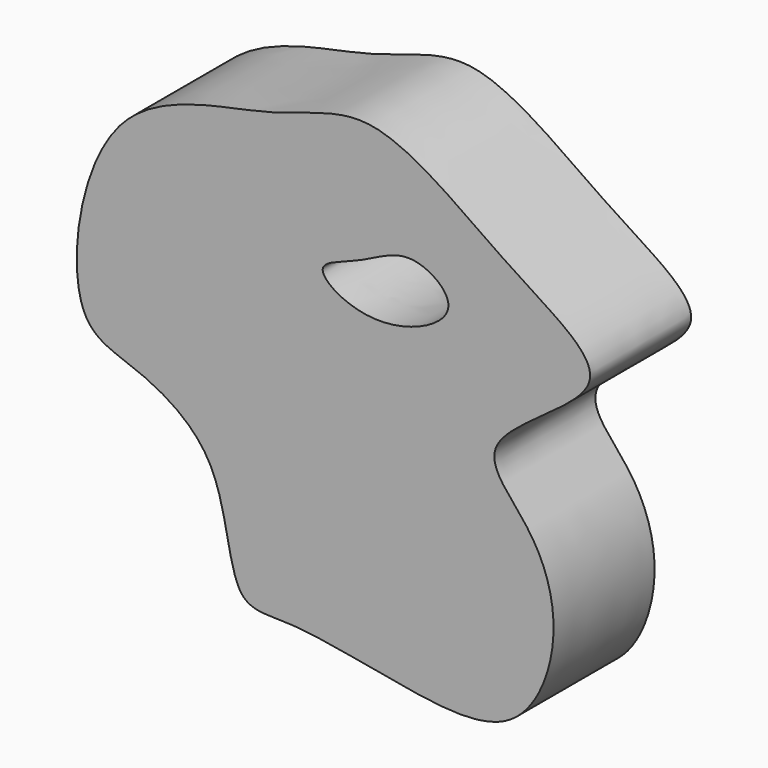
from build123d import *

# Parameters (mm, degrees)
F1_DEPTH = 25.4
F3_DEPTH = 25.4


with BuildPart() as f1:
    # F0 (on Front) → F1 (new body)
    with BuildSketch(Plane.XZ):
        with BuildLine():
            add(Edge.make_bspline(
                [(-59.1051317751, 47.3743416369), (-67.1204514466, 38.0978061736), (-70.8627493154, 9.5111165644), (-55.9934523199, 6.1788748303), (-37.1682294487, -3.8693745295), (-37.3623297981, -30.6863945285), (-24.1010453161, -28.6051365661), (-0.2864616454, -34.1076048891), (21.4914571689, -35.8660928098), (30.5462225061, -15.1670617861), (25.2968439295, 3.026994947), (8.493290154, 16.1119248465), (46.3423882039, 32.8059664172), (18.220140098, 47.5348713826), (-7.6527565095, 69.1257339772), (-28.2412553159, 57.7377811822), (-51.4162469446, 56.2730775235), (-59.1051317751, 47.3743416369)],
                knots=[0, 0, 0, 0, 0.0862273168, 0.1364742533, 0.2009442104, 0.2682275567, 0.3128902893, 0.385719995, 0.4499320352, 0.5121717727, 0.5752168378, 0.6289882363, 0.7019875347, 0.7679384044, 0.8512718256, 0.9172844084, 1, 1, 1, 1], degree=3))
        make_face()
    extrude(amount=F1_DEPTH)

    # F2 (on face) → F3 (cut)
    with BuildSketch(Plane(origin=(0, 0, 0), x_dir=(-1, 0, 0), z_dir=(0, 1, 0))):
        with BuildLine():
            add(Edge.make_bspline(
                [(-7.0685539395, 36.8467122316), (-7.3378630315, 39.6117929031), (0.925062528, 45.5472696289), (9.8041958041, 38.860900274), (22.5587468603, 35.9730095714), (7.515698845, 26.5302452062), (-6.7118727526, 33.1845549375), (-7.0685539395, 36.8467122316)],
                knots=[0, 0, 0, 0, 0.1814850458, 0.3839934695, 0.5546771835, 0.7596356623, 1, 1, 1, 1], degree=3))
        make_face()
    extrude(amount=-F3_DEPTH, mode=Mode.SUBTRACT)


solid = f1.part
